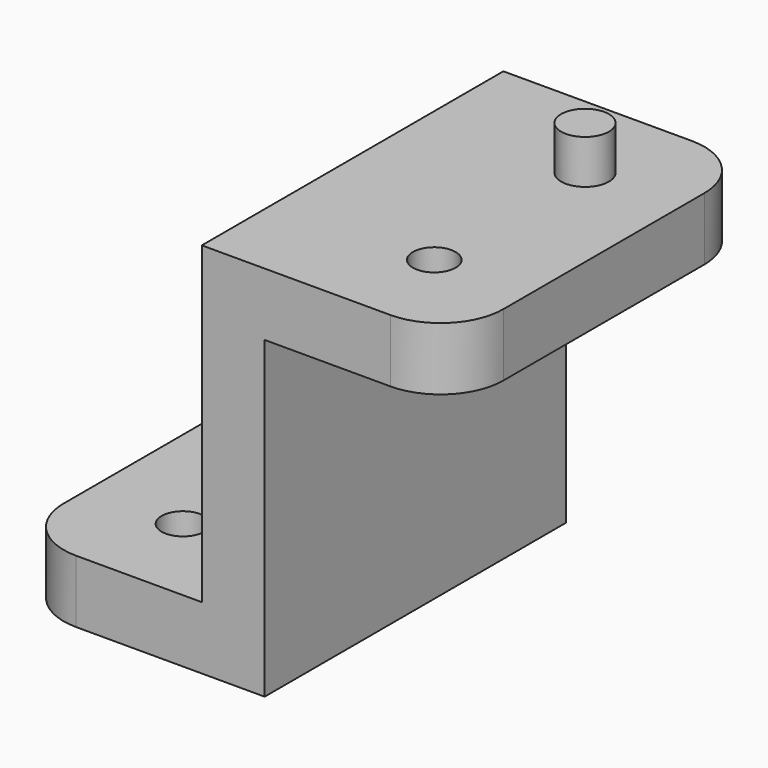
from build123d import *

# Parameters (mm, degrees)
PAD_DEPTH     = 5
SKETCH001_R   = 1.7
HOLE_DEPTH    = 72.8243
SKETCH002_W   = 30
SKETCH002_H   = 5
PAD001_DEPTH  = 5
SKETCH003_W   = 5
SKETCH003_H   = 30
PAD002_DEPTH  = 25
PAD003_DEPTH  = 5
POCKET_DEPTH  = 2.15
SKETCH006_R   = 1.7
HOLE001_DEPTH = 2.851
SKETCH007_R   = 1.9
PAD004_DEPTH  = 3.5


with BuildPart() as part:
    # Sketch → Pad (new body)
    with BuildSketch(Plane.XY):
        with BuildLine():
            Line((-15, 0), (0, 0))
            Line((0, 0), (0, 15))
            Line((0, 15), (-10, 15))
            ThreePointArc((-10, 15), (-13.535534, 13.535534), (-15, 10))
            Line((-15, 10), (-15, 0))
        make_face()
    pad = extrude(amount=PAD_DEPTH)

    # Mirrored: Pad across XZ
    add(pad.mirror(Plane.XZ))

    # Sketch001 (on Face5 of Mirrored) → Hole (cut, through all)
    with BuildSketch(Plane.XY.offset(5)):
        with Locations((-7.5, 7.5)):
            Circle(SKETCH001_R)
    hole = extrude(amount=-HOLE_DEPTH, mode=Mode.SUBTRACT)

    # Mirrored001: Hole across XZ
    add(hole.mirror(Plane.XZ), mode=Mode.SUBTRACT)

    # Sketch002 (on Face2 of Mirrored001) → Pad001 (join)
    with BuildSketch(Plane.YZ):
        with Locations((0, 2.5)):
            Rectangle(SKETCH002_W, SKETCH002_H)
    extrude(amount=PAD001_DEPTH)

    # Sketch003 (on Face12 of Pad001) → Pad002 (join)
    with BuildSketch(Plane.XY.offset(5)):
        with Locations((2.5, 0)):
            Rectangle(SKETCH003_W, SKETCH003_H)
    extrude(amount=PAD002_DEPTH)

    # Sketch004 (on Face16 of Pad002) → Pad003 (join)
    with BuildSketch(Plane.XY.offset(30)):
        with BuildLine():
            Line((5, 15), (15, 15))
            ThreePointArc((20, 10), (18.535534, 13.535534), (15, 15))
            Line((20, 10), (20, -10))
            ThreePointArc((15, -15), (18.535534, -13.535534), (20, -10))
            Line((15, -15), (5, -15))
            Line((5, -15), (5, 15))
        make_face()
    extrude(amount=-PAD003_DEPTH)

    # Sketch005 (on Face23 of Pad003) → Pocket (cut)
    with BuildSketch(Plane(origin=(0, 0, 25), x_dir=(1, 0, 0), z_dir=(0, 0, -1))):
        Polygon((15.848632, 7.5), (14.174316, 10.4), (10.825684, 10.4), (9.151368, 7.5), (10.825684, 4.6), (14.174316, 4.6), align=None)
    extrude(amount=-POCKET_DEPTH, mode=Mode.SUBTRACT)

    # Sketch006 (on Face35 of Pocket) → Hole001 (cut, through all)
    with BuildSketch(Plane(origin=(0, 0, 27.15), x_dir=(1, 0, 0), z_dir=(0, 0, -1))):
        with Locations((12.5, 7.5)):
            Circle(SKETCH006_R)
    extrude(amount=-HOLE001_DEPTH, mode=Mode.SUBTRACT)

    # Sketch007 (on Face25 of Hole001) → Pad004 (join)
    with BuildSketch(Plane.XY.offset(30)):
        with Locations((12.5, 7.5)):
            Circle(SKETCH007_R)
    extrude(amount=PAD004_DEPTH)


solid = part.part
